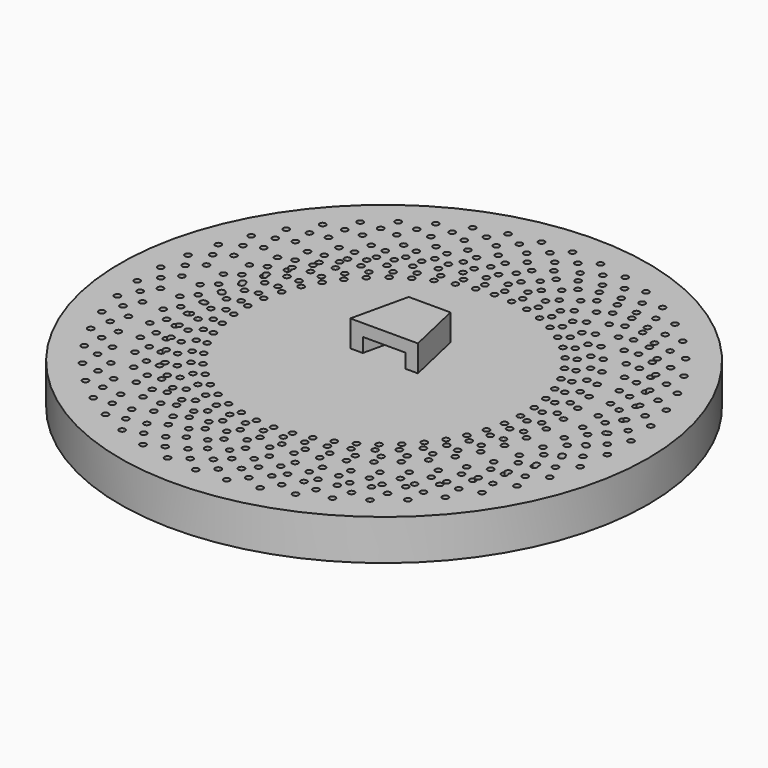
from build123d import *

# Parameters (mm, degrees)
F0_R      = 65
F1_DEPTH  = 10
F2_R      = 60
F3_DEPTH  = 7
F5_DEPTH  = 3.5
F7_DEPTH  = 3
F8_R      = 0.75
F9_DEPTH  = 25
F10_R     = 0.715367
F10_R_2   = 0.75
F10_R_3   = 0.776877
F11_DEPTH = 25
F12_R     = 0.75
F13_DEPTH = 25
F15_DEPTH = 7.11


with BuildPart() as f1:
    # F0 (on Top) → F1 (new body)
    with BuildSketch(Plane.XY):
        Circle(F0_R)
    extrude(amount=F1_DEPTH)

    # F2 (on face) → F3 (cut)
    with BuildSketch(Plane(origin=(0, 0, 0), x_dir=(1, 0, 0), z_dir=(0, 0, -1))):
        Circle(F2_R)
    extrude(amount=-F3_DEPTH, mode=Mode.SUBTRACT)

    # F4 (on face) → F5 (join)
    with BuildSketch(Plane.XY.offset(10)):
        Polygon((-8.326504, 0), (-5.25, 0), (-2.75, 11), (2.75, 11), (5.25, 0), (8.326504, 0), (5.144686, 14), (-5.144686, 14), align=None)
    extrude(amount=F5_DEPTH)

    # F6 (on face) → F7 (join)
    with BuildSketch(Plane.XY.offset(13.5)):
        Polygon((5.144686, 14), (-5.144686, 14), (-8.326504, 0), (8.326504, 0), align=None)
    extrude(amount=F7_DEPTH)

    # F8 (on face) → F9 (cut)
    with BuildSketch(Plane.XY.offset(10)):
        with Locations((0, -58)):
            Circle(F8_R)
        with Locations((7.269328, -57.542653)):
            Circle(F8_R)
        with Locations((14.424013, -56.177823)):
            Circle(F8_R)
        with Locations((21.351224, -53.927036)):
            Circle(F8_R)
        with Locations((27.941713, -50.825787)):
            Circle(F8_R)
        with Locations((34.091545, -46.922986)):
            Circle(F8_R)
        with Locations((39.703732, -42.28018)):
            Circle(F8_R)
        with Locations((44.689768, -36.970591)):
            Circle(F8_R)
        with Locations((48.97102, -31.077954)):
            Circle(F8_R)
        with Locations((52.479969, -24.695199)):
            Circle(F8_R)
        with Locations((55.161278, -17.922986)):
            Circle(F8_R)
        with Locations((56.972661, -10.868116)):
            Circle(F8_R)
        with Locations((57.88555, -3.64185)):
            Circle(F8_R)
        with Locations((57.88555, 3.64185)):
            Circle(F8_R)
        with Locations((56.972661, 10.868116)):
            Circle(F8_R)
        with Locations((55.161278, 17.922986)):
            Circle(F8_R)
        with Locations((52.479969, 24.695199)):
            Circle(F8_R)
        with Locations((48.97102, 31.077954)):
            Circle(F8_R)
        with Locations((44.689768, 36.970591)):
            Circle(F8_R)
        with Locations((39.703732, 42.28018)):
            Circle(F8_R)
        with Locations((34.091545, 46.922986)):
            Circle(F8_R)
        with Locations((27.941713, 50.825787)):
            Circle(F8_R)
        with Locations((21.351224, 53.927036)):
            Circle(F8_R)
        with Locations((14.424013, 56.177823)):
            Circle(F8_R)
        with Locations((7.269328, 57.542653)):
            Circle(F8_R)
        with Locations((0, 58)):
            Circle(F8_R)
        with Locations((-7.269328, 57.542653)):
            Circle(F8_R)
        with Locations((-14.424013, 56.177823)):
            Circle(F8_R)
        with Locations((-21.351224, 53.927036)):
            Circle(F8_R)
        with Locations((-27.941713, 50.825787)):
            Circle(F8_R)
        with Locations((-34.091545, 46.922986)):
            Circle(F8_R)
        with Locations((-39.703732, 42.28018)):
            Circle(F8_R)
        with Locations((-44.689768, 36.970591)):
            Circle(F8_R)
        with Locations((-48.97102, 31.077954)):
            Circle(F8_R)
        with Locations((-52.479969, 24.695199)):
            Circle(F8_R)
        with Locations((-55.161278, 17.922986)):
            Circle(F8_R)
        with Locations((-56.972661, 10.868116)):
            Circle(F8_R)
        with Locations((-57.88555, 3.64185)):
            Circle(F8_R)
        with Locations((-57.88555, -3.64185)):
            Circle(F8_R)
        with Locations((-56.972661, -10.868116)):
            Circle(F8_R)
        with Locations((-55.161278, -17.922986)):
            Circle(F8_R)
        with Locations((-52.479969, -24.695199)):
            Circle(F8_R)
        with Locations((-48.97102, -31.077954)):
            Circle(F8_R)
        with Locations((-44.689768, -36.970591)):
            Circle(F8_R)
        with Locations((-39.703732, -42.28018)):
            Circle(F8_R)
        with Locations((-34.091545, -46.922986)):
            Circle(F8_R)
        with Locations((-27.941713, -50.825787)):
            Circle(F8_R)
        with Locations((-21.351224, -53.927036)):
            Circle(F8_R)
        with Locations((-14.424013, -56.177823)):
            Circle(F8_R)
        with Locations((-7.269328, -57.542653)):
            Circle(F8_R)
        with Locations((-3.711991, -55.042653)):
            Circle(F8_R)
        with Locations((3.215953, -55.073861)):
            Circle(F8_R)
        with Locations((10.093179, -54.236521)):
            Circle(F8_R)
        with Locations((16.81123, -52.543839)):
            Circle(F8_R)
        with Locations((23.264157, -50.02251)):
            Circle(F8_R)
        with Locations((29.350195, -46.712295)):
            Circle(F8_R)
        with Locations((34.973363, -42.6654)):
            Circle(F8_R)
        with Locations((40.044981, -37.945646)):
            Circle(F8_R)
        with Locations((44.485064, -32.627466)):
            Circle(F8_R)
        with Locations((48.223592, -26.794732)):
            Circle(F8_R)
        with Locations((51.201605, -20.539429)):
            Circle(F8_R)
        with Locations((53.372138, -13.960206)):
            Circle(F8_R)
        with Locations((54.700961, -7.160823)):
            Circle(F8_R)
        with Locations((55.167116, -0.24851)):
            Circle(F8_R)
        with Locations((54.763254, 6.667723)):
            Circle(F8_R)
        with Locations((53.495742, 13.478802)):
            Circle(F8_R)
        with Locations((51.38457, 20.077312)):
            Circle(F8_R)
        with Locations((48.463033, 26.35919)):
            Circle(F8_R)
        with Locations((44.777205, 32.225369)):
            Circle(F8_R)
        with Locations((40.385214, 37.583334)):
            Circle(F8_R)
        with Locations((35.356323, 42.348588)):
            Circle(F8_R)
        with Locations((29.769843, 46.445979)):
            Circle(F8_R)
        with Locations((23.713874, 49.810889)):
            Circle(F8_R)
        with Locations((17.283923, 52.390252)):
            Circle(F8_R)
        with Locations((10.581395, 54.143389)):
            Circle(F8_R)
        with Locations((3.711991, 55.042653)):
            Circle(F8_R)
        with Locations((-3.215953, 55.073861)):
            Circle(F8_R)
        with Locations((-10.093179, 54.236521)):
            Circle(F8_R)
        with Locations((-16.81123, 52.543839)):
            Circle(F8_R)
        with Locations((-23.264157, 50.02251)):
            Circle(F8_R)
        with Locations((-29.350195, 46.712295)):
            Circle(F8_R)
        with Locations((-34.973363, 42.6654)):
            Circle(F8_R)
        with Locations((-40.044981, 37.945646)):
            Circle(F8_R)
        with Locations((-44.485064, 32.627466)):
            Circle(F8_R)
        with Locations((-48.223592, 26.794732)):
            Circle(F8_R)
        with Locations((-51.201605, 20.539429)):
            Circle(F8_R)
        with Locations((-53.372138, 13.960206)):
            Circle(F8_R)
        with Locations((-54.700961, 7.160823)):
            Circle(F8_R)
        with Locations((-55.167116, 0.24851)):
            Circle(F8_R)
        with Locations((-54.763254, -6.667723)):
            Circle(F8_R)
        with Locations((-53.495742, -13.478802)):
            Circle(F8_R)
        with Locations((-51.38457, -20.077312)):
            Circle(F8_R)
        with Locations((-48.463033, -26.35919)):
            Circle(F8_R)
        with Locations((-44.777205, -32.225369)):
            Circle(F8_R)
        with Locations((-40.385214, -37.583334)):
            Circle(F8_R)
        with Locations((-35.356323, -42.348588)):
            Circle(F8_R)
        with Locations((-29.769843, -46.445979)):
            Circle(F8_R)
        with Locations((-23.713874, -49.810889)):
            Circle(F8_R)
        with Locations((-17.283923, -52.390252)):
            Circle(F8_R)
        with Locations((-10.581395, -54.143389)):
            Circle(F8_R)
        with Locations((0, -52.542653)):
            Circle(F8_R)
        with Locations((6.585341, -52.128338)):
            Circle(F8_R)
        with Locations((13.066826, -50.891929)):
            Circle(F8_R)
        with Locations((19.342241, -48.852923)):
            Circle(F8_R)
        with Locations((25.312616, -46.043478)):
            Circle(F8_R)
        with Locations((30.883796, -42.507899)):
            Circle(F8_R)
        with Locations((35.967921, -38.301945)):
            Circle(F8_R)
        with Locations((40.48481, -33.491947)):
            Circle(F8_R)
        with Locations((44.363229, -28.153761)):
            Circle(F8_R)
        with Locations((47.542014, -22.371573)):
            Circle(F8_R)
        with Locations((49.971032, -16.236573)):
            Circle(F8_R)
        with Locations((51.611978, -9.845511)):
            Circle(F8_R)
        with Locations((52.438972, -3.29918)):
            Circle(F8_R)
        with Locations((52.438972, 3.29918)):
            Circle(F8_R)
        with Locations((51.611978, 9.845511)):
            Circle(F8_R)
        with Locations((49.971032, 16.236573)):
            Circle(F8_R)
        with Locations((47.542014, 22.371573)):
            Circle(F8_R)
        with Locations((44.363229, 28.153761)):
            Circle(F8_R)
        with Locations((40.48481, 33.491947)):
            Circle(F8_R)
        with Locations((35.967921, 38.301945)):
            Circle(F8_R)
        with Locations((30.883796, 42.507899)):
            Circle(F8_R)
        with Locations((25.312616, 46.043478)):
            Circle(F8_R)
        with Locations((19.342241, 48.852923)):
            Circle(F8_R)
        with Locations((13.066826, 50.891929)):
            Circle(F8_R)
        with Locations((6.585341, 52.128338)):
            Circle(F8_R)
        with Locations((0, 52.542653)):
            Circle(F8_R)
        with Locations((-6.585341, 52.128338)):
            Circle(F8_R)
        with Locations((-13.066826, 50.891929)):
            Circle(F8_R)
        with Locations((-19.342241, 48.852923)):
            Circle(F8_R)
        with Locations((-25.312616, 46.043478)):
            Circle(F8_R)
        with Locations((-30.883796, 42.507899)):
            Circle(F8_R)
        with Locations((-35.967921, 38.301945)):
            Circle(F8_R)
        with Locations((-40.48481, 33.491947)):
            Circle(F8_R)
        with Locations((-44.363229, 28.153761)):
            Circle(F8_R)
        with Locations((-47.542014, 22.371573)):
            Circle(F8_R)
        with Locations((-49.971032, 16.236573)):
            Circle(F8_R)
        with Locations((-51.611978, 9.845511)):
            Circle(F8_R)
        with Locations((-52.438972, 3.29918)):
            Circle(F8_R)
        with Locations((-52.438972, -3.29918)):
            Circle(F8_R)
        with Locations((-51.611978, -9.845511)):
            Circle(F8_R)
        with Locations((-49.971032, -16.236573)):
            Circle(F8_R)
        with Locations((-47.542014, -22.371573)):
            Circle(F8_R)
        with Locations((-44.363229, -28.153761)):
            Circle(F8_R)
        with Locations((-40.48481, -33.491947)):
            Circle(F8_R)
        with Locations((-35.967921, -38.301945)):
            Circle(F8_R)
        with Locations((-30.883796, -42.507899)):
            Circle(F8_R)
        with Locations((-25.312616, -46.043478)):
            Circle(F8_R)
        with Locations((-19.342241, -48.852923)):
            Circle(F8_R)
        with Locations((-13.066826, -50.891929)):
            Circle(F8_R)
        with Locations((-6.585341, -52.128338)):
            Circle(F8_R)
    extrude(amount=-F9_DEPTH, mode=Mode.SUBTRACT)

    # F10 (on face) → F11 (cut)
    with BuildSketch(Plane.XY.offset(10)):
        with Locations((-3.711991, -55.042653)):
            Circle(F10_R)
        with Locations((-3.711991, -49.678609)):
            Circle(F10_R_2)
        with Locations((0, -52.542653)):
            Circle(F10_R_3)
        with Locations((0, -47.542653)):
            Circle(F10_R_2)
        with Locations((-3.711991, -44.638869)):
            Circle(F10_R_2)
        with Locations((1.908117, -45.042653)):
            Circle(F10_R_2)
        with Locations((5.954779, -47.458303)):
            Circle(F10_R_2)
        with Locations((2.539764, -50.042653)):
            Circle(F10_R_2)
        with Locations((7.534517, -44.738866)):
            Circle(F10_R_2)
        with Locations((11.85203, -46.628288)):
            Circle(F10_R_2)
        with Locations((8.787849, -49.620273)):
            Circle(F10_R_2)
        with Locations((13.078476, -43.7323)):
            Circle(F10_R_2)
        with Locations((17.598752, -45.065695)):
            Circle(F10_R_2)
        with Locations((14.933728, -48.418132)):
            Circle(F10_R_2)
        with Locations((18.452563, -42.038829)):
            Circle(F10_R_2)
        with Locations((23.104314, -42.795169)):
            Circle(F10_R_2)
        with Locations((20.880476, -46.455187)):
            Circle(F10_R_2)
        with Locations((23.572026, -39.68516)):
            Circle(F10_R_2)
        with Locations((28.281891, -39.852517)):
            Circle(F10_R_2)
        with Locations((26.53431, -43.762395)):
            Circle(F10_R_2)
        with Locations((28.356127, -36.708411)):
            Circle(F10_R_2)
        with Locations((33.049829, -36.284146)):
            Circle(F10_R_2)
        with Locations((31.806066, -40.382224)):
            Circle(F10_R_2)
        with Locations((32.729419, -33.155528)):
            Circle(F10_R_2)
        with Locations((37.332935, -32.146331)):
            Circle(F10_R_2)
        with Locations((36.612605, -36.367979)):
            Circle(F10_R_2)
        with Locations((36.622931, -29.082542)):
            Circle(F10_R_2)
        with Locations((41.063662, -27.504329)):
            Circle(F10_R_2)
        with Locations((40.878124, -31.78297)):
            Circle(F10_R_2)
        with Locations((39.975262, -24.553686)):
            Circle(F10_R_2)
        with Locations((44.183173, -22.431347)):
            Circle(F10_R_2)
        with Locations((44.535355, -26.699503)):
            Circle(F10_R_2)
        with Locations((42.733542, -19.640383)):
            Circle(F10_R_2)
        with Locations((46.642273, -17.007388)):
            Circle(F10_R_2)
        with Locations((47.52662, -21.197748)):
            Circle(F10_R_2)
        with Locations((44.854272, -14.420118)):
            Circle(F10_R_2)
        with Locations((48.40218, -11.317992)):
            Circle(F10_R_2)
        with Locations((49.804745, -15.364471)):
            Circle(F10_R_2)
        with Locations((46.304008, -8.975219)):
            Circle(F10_R_2)
        with Locations((49.435139, -5.452883)):
            Circle(F10_R_2)
        with Locations((51.333803, -9.291667)):
            Circle(F10_R_2)
        with Locations((47.059884, -3.391555)):
            Circle(F10_R_2)
        with Locations((49.72486, 0.495442)):
            Circle(F10_R_2)
        with Locations((52.089679, -3.075107)):
            Circle(F10_R_2)
        with Locations((47.109982, 2.242817)):
            Circle(F10_R_2)
        with Locations((49.266774, 6.433174)):
            Circle(F10_R_2)
        with Locations((52.060454, 3.18717)):
            Circle(F10_R_2)
        with Locations((46.45351, 7.839039)):
            Circle(F10_R_2)
        with Locations((48.068104, 12.266671)):
            Circle(F10_R_2)
        with Locations((51.246588, 9.396405)):
            Circle(F10_R_2)
        with Locations((45.100823, 13.308856)):
            Circle(F10_R_2)
        with Locations((46.147756, 17.903937)):
            Circle(F10_R_2)
        with Locations((49.660916, 15.454673)):
            Circle(F10_R_2)
        with Locations((43.073251, 18.566005)):
            Circle(F10_R_2)
        with Locations((43.536013, 23.256068)):
            Circle(F10_R_2)
        with Locations((47.328445, 21.266433)):
            Circle(F10_R_2)
        with Locations((40.402773, 23.527577)):
            Circle(F10_R_2)
        with Locations((40.274065, 28.238657)):
            Circle(F10_R_2)
        with Locations((44.285959, 26.740029)):
            Circle(F10_R_2)
        with Locations((37.131502, 28.115327)):
            Circle(F10_R_2)
        with Locations((36.413354, 32.773127)):
            Circle(F10_R_2)
        with Locations((40.581441, 31.789139)):
            Circle(F10_R_2)
        with Locations((33.311028, 32.256901)):
            Circle(F10_R_2)
        with Locations((32.014766, 36.787966)):
            Circle(F10_R_2)
        with Locations((36.273313, 36.334137)):
            Circle(F10_R_2)
        with Locations((29.001604, 35.886986)):
            Circle(F10_R_2)
        with Locations((27.147669, 40.219857)):
            Circle(F10_R_2)
        with Locations((31.429517, 40.303344)):
            Circle(F10_R_2)
        with Locations((24.27119, 38.948332)):
            Circle(F10_R_2)
        with Locations((21.888822, 43.014678)):
            Circle(F10_R_2)
        with Locations((26.126442, 43.634164)):
            Circle(F10_R_2)
        with Locations((19.194388, 41.392661)):
            Circle(F10_R_2)
        with Locations((16.321157, 45.128352)):
            Circle(F10_R_2)
        with Locations((20.44772, 46.274068)):
            Circle(F10_R_2)
        with Locations((13.851263, 43.181423)):
            Circle(F10_R_2)
        with Locations((10.532482, 46.527546)):
            Circle(F10_R_2)
        with Locations((14.48291, 48.181423)):
            Circle(F10_R_2)
        with Locations((8.326078, 44.28641)):
            Circle(F10_R_2)
        with Locations((4.614087, 47.190194)):
            Circle(F10_R_2)
        with Locations((8.326078, 49.32615)):
            Circle(F10_R_2)
        with Locations((2.70597, 44.690194)):
            Circle(F10_R_2)
        with Locations((-1.340692, 47.105844)):
            Circle(F10_R_2)
        with Locations((2.074323, 49.690194)):
            Circle(F10_R_2)
        with Locations((-2.92043, 44.386407)):
            Circle(F10_R_2)
        with Locations((-7.237944, 46.275829)):
            Circle(F10_R_2)
        with Locations((-4.173762, 49.267814)):
            Circle(F10_R_2)
        with Locations((-8.464389, 43.379841)):
            Circle(F10_R_2)
        with Locations((-12.984665, 44.713236)):
            Circle(F10_R_2)
        with Locations((-10.319641, 48.065673)):
            Circle(F10_R_2)
        with Locations((-13.838476, 41.68637)):
            Circle(F10_R_2)
        with Locations((-18.490227, 42.44271)):
            Circle(F10_R_2)
        with Locations((-16.266389, 46.102728)):
            Circle(F10_R_2)
        with Locations((-18.957939, 39.332701)):
            Circle(F10_R_2)
        with Locations((-23.667804, 39.500058)):
            Circle(F10_R_2)
        with Locations((-21.920224, 43.409936)):
            Circle(F10_R_2)
        with Locations((-23.74204, 36.355952)):
            Circle(F10_R_2)
        with Locations((-28.435742, 35.931687)):
            Circle(F10_R_2)
        with Locations((-27.191979, 40.029765)):
            Circle(F10_R_2)
        with Locations((-28.115332, 32.803069)):
            Circle(F10_R_2)
        with Locations((-32.718848, 31.793872)):
            Circle(F10_R_2)
        with Locations((-31.998518, 36.01552)):
            Circle(F10_R_2)
        with Locations((-32.008844, 28.730083)):
            Circle(F10_R_2)
        with Locations((-36.449575, 27.15187)):
            Circle(F10_R_2)
        with Locations((-36.264038, 31.430511)):
            Circle(F10_R_2)
        with Locations((-35.361175, 24.201227)):
            Circle(F10_R_2)
        with Locations((-39.569086, 22.078888)):
            Circle(F10_R_2)
        with Locations((-39.921268, 26.347044)):
            Circle(F10_R_2)
        with Locations((-38.119455, 19.287924)):
            Circle(F10_R_2)
        with Locations((-42.028186, 16.654929)):
            Circle(F10_R_2)
        with Locations((-42.912533, 20.845289)):
            Circle(F10_R_2)
        with Locations((-40.240186, 14.067659)):
            Circle(F10_R_2)
        with Locations((-43.788093, 10.965532)):
            Circle(F10_R_2)
        with Locations((-45.190658, 15.012012)):
            Circle(F10_R_2)
        with Locations((-41.689921, 8.62276)):
            Circle(F10_R_2)
        with Locations((-44.821052, 5.100424)):
            Circle(F10_R_2)
        with Locations((-46.719716, 8.939208)):
            Circle(F10_R_2)
        with Locations((-42.445797, 3.039096)):
            Circle(F10_R_2)
        with Locations((-45.110773, -0.847901)):
            Circle(F10_R_2)
        with Locations((-47.475592, 2.722648)):
            Circle(F10_R_2)
        with Locations((-42.495895, -2.595276)):
            Circle(F10_R_2)
        with Locations((-44.652687, -6.785633)):
            Circle(F10_R_2)
        with Locations((-47.446367, -3.539629)):
            Circle(F10_R_2)
        with Locations((-41.839423, -8.191498)):
            Circle(F10_R_2)
        with Locations((-43.454018, -12.619131)):
            Circle(F10_R_2)
        with Locations((-46.632501, -9.748864)):
            Circle(F10_R_2)
        with Locations((-40.486736, -13.661315)):
            Circle(F10_R_2)
        with Locations((-41.533669, -18.256396)):
            Circle(F10_R_2)
        with Locations((-45.046829, -15.807132)):
            Circle(F10_R_2)
        with Locations((-38.459165, -18.918464)):
            Circle(F10_R_2)
        with Locations((-38.921926, -23.608527)):
            Circle(F10_R_2)
        with Locations((-42.714358, -21.618892)):
            Circle(F10_R_2)
        with Locations((-35.788686, -23.880036)):
            Circle(F10_R_2)
        with Locations((-35.659978, -28.591116)):
            Circle(F10_R_2)
        with Locations((-39.671872, -27.092488)):
            Circle(F10_R_2)
        with Locations((-32.517415, -28.467786)):
            Circle(F10_R_2)
        with Locations((-31.799267, -33.125586)):
            Circle(F10_R_2)
        with Locations((-35.967354, -32.141598)):
            Circle(F10_R_2)
        with Locations((-28.696942, -32.60936)):
            Circle(F10_R_2)
        with Locations((-27.400679, -37.140425)):
            Circle(F10_R_2)
        with Locations((-31.659226, -36.686596)):
            Circle(F10_R_2)
        with Locations((-24.387517, -36.239445)):
            Circle(F10_R_2)
        with Locations((-22.533583, -40.572316)):
            Circle(F10_R_2)
        with Locations((-26.81543, -40.655803)):
            Circle(F10_R_2)
        with Locations((-19.657103, -39.300792)):
            Circle(F10_R_2)
        with Locations((-17.274735, -43.367137)):
            Circle(F10_R_2)
        with Locations((-21.512355, -43.986623)):
            Circle(F10_R_2)
        with Locations((-14.580301, -41.74512)):
            Circle(F10_R_2)
        with Locations((-11.70707, -45.480811)):
            Circle(F10_R_2)
        with Locations((-15.833633, -46.626527)):
            Circle(F10_R_2)
        with Locations((-9.237176, -43.533883)):
            Circle(F10_R_2)
        with Locations((-5.918395, -46.880005)):
            Circle(F10_R_2)
        with Locations((-9.868823, -48.533883)):
            Circle(F10_R_2)
    extrude(amount=-F11_DEPTH, mode=Mode.SUBTRACT)

    # F12 (on face) → F13 (cut)
    with BuildSketch(Plane.XY.offset(10)):
        with Locations((-3.711991, -44.638869)):
            Circle(F12_R)
        with Locations((0, -47.542653)):
            Circle(F12_R)
        with Locations((0, -42.138869)):
            Circle(F12_R)
        with Locations((0, -37.138869)):
            Circle(F12_R)
        with Locations((-3.711991, -39.638869)):
            Circle(F12_R)
        with Locations((-3.711991, -34.638869)):
            Circle(F12_R)
        with Locations((1.285347, -39.79154)):
            Circle(F12_R)
        with Locations((5.281401, -41.806591)):
            Circle(F12_R)
        with Locations((4.654735, -36.846018)):
            Circle(F12_R)
        with Locations((0.65868, -34.830967)):
            Circle(F12_R)
        with Locations((6.262414, -39.316676)):
            Circle(F12_R)
        with Locations((10.479511, -40.814999)):
            Circle(F12_R)
        with Locations((9.236061, -35.972083)):
            Circle(F12_R)
        with Locations((5.018964, -34.47376)):
            Circle(F12_R)
        with Locations((11.140719, -38.221763)):
            Circle(F12_R)
        with Locations((15.512352, -39.179729)):
            Circle(F12_R)
        with Locations((13.671729, -34.530847)):
            Circle(F12_R)
        with Locations((9.300096, -33.572881)):
            Circle(F12_R)
        with Locations((15.843328, -36.524071)):
            Circle(F12_R)
        with Locations((20.300555, -36.926572)):
            Circle(F12_R)
        with Locations((17.891786, -32.545039)):
            Circle(F12_R)
        with Locations((13.43456, -32.142538)):
            Circle(F12_R)
        with Locations((20.296078, -34.250372)):
            Circle(F12_R)
        with Locations((24.768606, -34.091061)):
            Circle(F12_R)
        with Locations((21.829679, -30.045976)):
            Circle(F12_R)
        with Locations((17.357152, -30.205287)):
            Circle(F12_R)
        with Locations((24.428748, -31.436525)):
            Circle(F12_R)
        with Locations((28.846041, -30.717913)):
            Circle(F12_R)
        with Locations((25.423305, -27.07307)):
            Circle(F12_R)
        with Locations((21.006012, -27.791681)):
            Circle(F12_R)
        with Locations((28.176161, -28.126904)):
            Circle(F12_R)
        with Locations((32.468556, -26.860326)):
            Circle(F12_R)
        with Locations((28.61599, -23.673206)):
            Circle(F12_R)
        with Locations((24.323595, -24.939784)):
            Circle(F12_R)
        with Locations((31.479219, -24.373706)):
            Circle(F12_R)
        with Locations((35.579024, -22.579135)):
            Circle(F12_R)
        with Locations((31.357384, -19.900001)):
            Circle(F12_R)
        with Locations((27.25758, -21.694572)):
            Circle(F12_R)
        with Locations((34.285832, -20.23612)):
            Circle(F12_R)
        with Locations((38.128388, -17.941858)):
            Circle(F12_R)
        with Locations((33.604253, -15.812961)):
            Circle(F12_R)
        with Locations((29.761697, -18.107223)):
            Circle(F12_R)
        with Locations((36.551736, -15.779398)):
            Circle(F12_R)
        with Locations((40.076446, -13.021627)):
            Circle(F12_R)
        with Locations((35.321163, -11.476542)):
            Circle(F12_R)
        with Locations((31.796453, -14.234313)):
            Circle(F12_R)
        with Locations((38.241198, -11.073825)):
            Circle(F12_R)
        with Locations((41.392474, -7.896037)):
            Circle(F12_R)
        with Locations((36.481037, -6.95913)):
            Circle(F12_R)
        with Locations((33.329761, -10.136918)):
            Circle(F12_R)
        with Locations((39.327573, -6.193612)):
            Circle(F12_R)
        with Locations((42.055717, -2.645921)):
            Circle(F12_R)
        with Locations((37.065584, -2.331969)):
            Circle(F12_R)
        with Locations((34.337439, -5.879659)):
            Circle(F12_R)
        with Locations((39.793728, -1.215721)):
            Circle(F12_R)
        with Locations((42.055717, 2.645921)):
            Circle(F12_R)
        with Locations((37.065584, 2.331969)):
            Circle(F12_R)
        with Locations((34.803595, -1.529674)):
            Circle(F12_R)
        with Locations((39.632313, 3.781342)):
            Circle(F12_R)
        with Locations((41.392474, 7.896037)):
            Circle(F12_R)
        with Locations((36.481037, 6.95913)):
            Circle(F12_R)
        with Locations((34.720877, 2.844435)):
            Circle(F12_R)
        with Locations((38.845873, 8.718771)):
            Circle(F12_R)
        with Locations((40.076446, 13.021627)):
            Circle(F12_R)
        with Locations((35.321163, 11.476542)):
            Circle(F12_R)
        with Locations((34.09059, 7.173686)):
            Circle(F12_R)
        with Locations((37.44681, 13.518699)):
            Circle(F12_R)
        with Locations((38.128388, 17.941858)):
            Circle(F12_R)
        with Locations((33.604253, 15.812961)):
            Circle(F12_R)
        with Locations((32.922675, 11.389803)):
            Circle(F12_R)
        with Locations((35.457188, 18.10543)):
            Circle(F12_R)
        with Locations((35.579024, 22.579135)):
            Circle(F12_R)
        with Locations((31.357384, 19.900001)):
            Circle(F12_R)
        with Locations((31.235549, 15.426296)):
            Circle(F12_R)
        with Locations((32.908386, 22.406627)):
            Circle(F12_R)
        with Locations((32.468556, 26.860326)):
            Circle(F12_R)
        with Locations((28.61599, 23.673206)):
            Circle(F12_R)
        with Locations((29.055819, 19.219508)):
            Circle(F12_R)
        with Locations((29.840598, 26.354459)):
            Circle(F12_R)
        with Locations((28.846041, 30.717913)):
            Circle(F12_R)
        with Locations((25.423305, 27.07307)):
            Circle(F12_R)
        with Locations((26.417863, 22.709616)):
            Circle(F12_R)
        with Locations((26.302206, 29.886665)):
            Circle(F12_R)
        with Locations((24.768606, 34.091061)):
            Circle(F12_R)
        with Locations((21.829679, 30.045976)):
            Circle(F12_R)
        with Locations((23.36328, 25.84158)):
            Circle(F12_R)
        with Locations((22.349013, 32.94754)):
            Circle(F12_R)
        with Locations((20.300555, 36.926572)):
            Circle(F12_R)
        with Locations((17.891786, 32.545039)):
            Circle(F12_R)
        with Locations((19.940245, 28.566007)):
            Circle(F12_R)
        with Locations((18.043363, 35.488813)):
            Circle(F12_R)
        with Locations((15.512352, 39.179729)):
            Circle(F12_R)
        with Locations((13.671729, 34.530847)):
            Circle(F12_R)
        with Locations((16.20274, 30.839931)):
            Circle(F12_R)
        with Locations((13.453158, 37.470406)):
            Circle(F12_R)
        with Locations((10.479511, 40.814999)):
            Circle(F12_R)
        with Locations((9.236061, 35.972083)):
            Circle(F12_R)
        with Locations((12.209709, 32.62749)):
            Circle(F12_R)
        with Locations((8.650789, 38.861069)):
            Circle(F12_R)
        with Locations((5.281401, 41.806591)):
            Circle(F12_R)
        with Locations((4.654735, 36.846018)):
            Circle(F12_R)
        with Locations((8.024123, 33.900495)):
            Circle(F12_R)
        with Locations((3.711991, 39.638869)):
            Circle(F12_R)
        with Locations((0, 42.138869)):
            Circle(F12_R)
        with Locations((0, 37.138869)):
            Circle(F12_R)
        with Locations((3.711991, 34.638869)):
            Circle(F12_R)
        with Locations((-1.285347, 39.79154)):
            Circle(F12_R)
        with Locations((-5.281401, 41.806591)):
            Circle(F12_R)
        with Locations((-4.654735, 36.846018)):
            Circle(F12_R)
        with Locations((-0.65868, 34.830967)):
            Circle(F12_R)
        with Locations((-6.262414, 39.316676)):
            Circle(F12_R)
        with Locations((-10.479511, 40.814999)):
            Circle(F12_R)
        with Locations((-9.236061, 35.972083)):
            Circle(F12_R)
        with Locations((-5.018964, 34.47376)):
            Circle(F12_R)
        with Locations((-11.140719, 38.221763)):
            Circle(F12_R)
        with Locations((-15.512352, 39.179729)):
            Circle(F12_R)
        with Locations((-13.671729, 34.530847)):
            Circle(F12_R)
        with Locations((-9.300096, 33.572881)):
            Circle(F12_R)
        with Locations((-15.843328, 36.524071)):
            Circle(F12_R)
        with Locations((-20.300555, 36.926572)):
            Circle(F12_R)
        with Locations((-17.891786, 32.545039)):
            Circle(F12_R)
        with Locations((-13.43456, 32.142538)):
            Circle(F12_R)
        with Locations((-20.296078, 34.250372)):
            Circle(F12_R)
        with Locations((-24.768606, 34.091061)):
            Circle(F12_R)
        with Locations((-21.829679, 30.045976)):
            Circle(F12_R)
        with Locations((-17.357152, 30.205287)):
            Circle(F12_R)
        with Locations((-24.428748, 31.436525)):
            Circle(F12_R)
        with Locations((-28.846041, 30.717913)):
            Circle(F12_R)
        with Locations((-25.423305, 27.07307)):
            Circle(F12_R)
        with Locations((-21.006012, 27.791681)):
            Circle(F12_R)
        with Locations((-28.176161, 28.126904)):
            Circle(F12_R)
        with Locations((-32.468556, 26.860326)):
            Circle(F12_R)
        with Locations((-28.61599, 23.673206)):
            Circle(F12_R)
        with Locations((-24.323595, 24.939784)):
            Circle(F12_R)
        with Locations((-31.479219, 24.373706)):
            Circle(F12_R)
        with Locations((-35.579024, 22.579135)):
            Circle(F12_R)
        with Locations((-31.357384, 19.900001)):
            Circle(F12_R)
        with Locations((-27.25758, 21.694572)):
            Circle(F12_R)
        with Locations((-34.285832, 20.23612)):
            Circle(F12_R)
        with Locations((-38.128388, 17.941858)):
            Circle(F12_R)
        with Locations((-33.604253, 15.812961)):
            Circle(F12_R)
        with Locations((-29.761697, 18.107223)):
            Circle(F12_R)
        with Locations((-36.551736, 15.779398)):
            Circle(F12_R)
        with Locations((-40.076446, 13.021627)):
            Circle(F12_R)
        with Locations((-35.321163, 11.476542)):
            Circle(F12_R)
        with Locations((-31.796453, 14.234313)):
            Circle(F12_R)
        with Locations((-38.241198, 11.073825)):
            Circle(F12_R)
        with Locations((-41.392474, 7.896037)):
            Circle(F12_R)
        with Locations((-36.481037, 6.95913)):
            Circle(F12_R)
        with Locations((-33.329761, 10.136918)):
            Circle(F12_R)
        with Locations((-39.327573, 6.193612)):
            Circle(F12_R)
        with Locations((-42.055717, 2.645921)):
            Circle(F12_R)
        with Locations((-37.065584, 2.331969)):
            Circle(F12_R)
        with Locations((-34.337439, 5.879659)):
            Circle(F12_R)
        with Locations((-39.793728, 1.215721)):
            Circle(F12_R)
        with Locations((-42.055717, -2.645921)):
            Circle(F12_R)
        with Locations((-37.065584, -2.331969)):
            Circle(F12_R)
        with Locations((-34.803595, 1.529674)):
            Circle(F12_R)
        with Locations((-39.632313, -3.781342)):
            Circle(F12_R)
        with Locations((-41.392474, -7.896037)):
            Circle(F12_R)
        with Locations((-36.481037, -6.95913)):
            Circle(F12_R)
        with Locations((-34.720877, -2.844435)):
            Circle(F12_R)
        with Locations((-38.845873, -8.718771)):
            Circle(F12_R)
        with Locations((-40.076446, -13.021627)):
            Circle(F12_R)
        with Locations((-35.321163, -11.476542)):
            Circle(F12_R)
        with Locations((-34.09059, -7.173686)):
            Circle(F12_R)
        with Locations((-37.44681, -13.518699)):
            Circle(F12_R)
        with Locations((-38.128388, -17.941858)):
            Circle(F12_R)
        with Locations((-33.604253, -15.812961)):
            Circle(F12_R)
        with Locations((-32.922675, -11.389803)):
            Circle(F12_R)
        with Locations((-35.457188, -18.10543)):
            Circle(F12_R)
        with Locations((-35.579024, -22.579135)):
            Circle(F12_R)
        with Locations((-31.357384, -19.900001)):
            Circle(F12_R)
        with Locations((-31.235549, -15.426296)):
            Circle(F12_R)
        with Locations((-32.908386, -22.406627)):
            Circle(F12_R)
        with Locations((-32.468556, -26.860326)):
            Circle(F12_R)
        with Locations((-28.61599, -23.673206)):
            Circle(F12_R)
        with Locations((-29.055819, -19.219508)):
            Circle(F12_R)
        with Locations((-29.840598, -26.354459)):
            Circle(F12_R)
        with Locations((-28.846041, -30.717913)):
            Circle(F12_R)
        with Locations((-25.423305, -27.07307)):
            Circle(F12_R)
        with Locations((-26.417863, -22.709616)):
            Circle(F12_R)
        with Locations((-26.302206, -29.886665)):
            Circle(F12_R)
        with Locations((-24.768606, -34.091061)):
            Circle(F12_R)
        with Locations((-21.829679, -30.045976)):
            Circle(F12_R)
        with Locations((-23.36328, -25.84158)):
            Circle(F12_R)
        with Locations((-22.349013, -32.94754)):
            Circle(F12_R)
        with Locations((-20.300555, -36.926572)):
            Circle(F12_R)
        with Locations((-17.891786, -32.545039)):
            Circle(F12_R)
        with Locations((-19.940245, -28.566007)):
            Circle(F12_R)
        with Locations((-18.043363, -35.488813)):
            Circle(F12_R)
        with Locations((-15.512352, -39.179729)):
            Circle(F12_R)
        with Locations((-13.671729, -34.530847)):
            Circle(F12_R)
        with Locations((-16.20274, -30.839931)):
            Circle(F12_R)
        with Locations((-13.453158, -37.470406)):
            Circle(F12_R)
        with Locations((-10.479511, -40.814999)):
            Circle(F12_R)
        with Locations((-9.236061, -35.972083)):
            Circle(F12_R)
        with Locations((-12.209709, -32.62749)):
            Circle(F12_R)
        with Locations((-8.650789, -38.861069)):
            Circle(F12_R)
        with Locations((-5.281401, -41.806591)):
            Circle(F12_R)
        with Locations((-4.654735, -36.846018)):
            Circle(F12_R)
        with Locations((-8.024123, -33.900495)):
            Circle(F12_R)
    extrude(amount=-F13_DEPTH, mode=Mode.SUBTRACT)

    # F14 (on face) → F15 (join)
    with BuildSketch(Plane.XY.offset(16.5)):
        Polygon((5.144686, 14), (-5.144686, 14), (-8.326504, 0), (-5.25, 0), (-2.75, 11), (2.75, 11), (5.25, 0), (8.326504, 0), align=None)
    extrude(amount=-F15_DEPTH)


solid = f1.part
